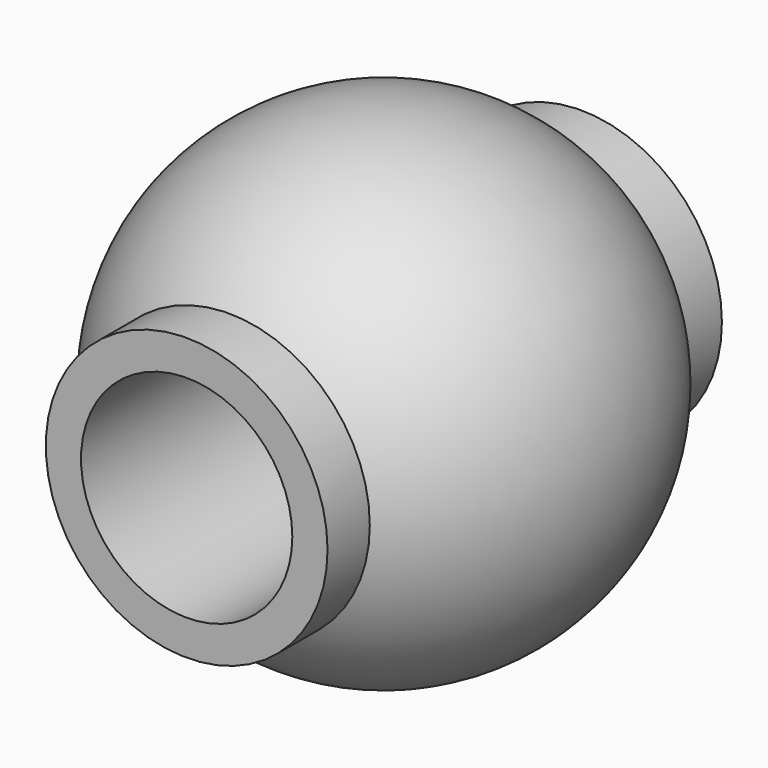
from build123d import *


with BuildPart() as part:
    # Sketch → Revolution (revolve)
    with BuildSketch(Plane.XY):
        with BuildLine():
            Line((2, -3.5), (2, -2.749545))
            ThreePointArc((2, -2.749545), (3.4, 0), (2, 2.749545))
            Line((2, 2.749545), (2, 3.5))
            Line((2, 3.5), (1.5, 3.5))
            Line((1.5, 3.5), (1.5, -3.5))
            Line((1.5, -3.5), (2, -3.5))
        make_face()
    revolve(axis=Axis((0, 0, 0), (0, 1, 0)))


solid = part.part
